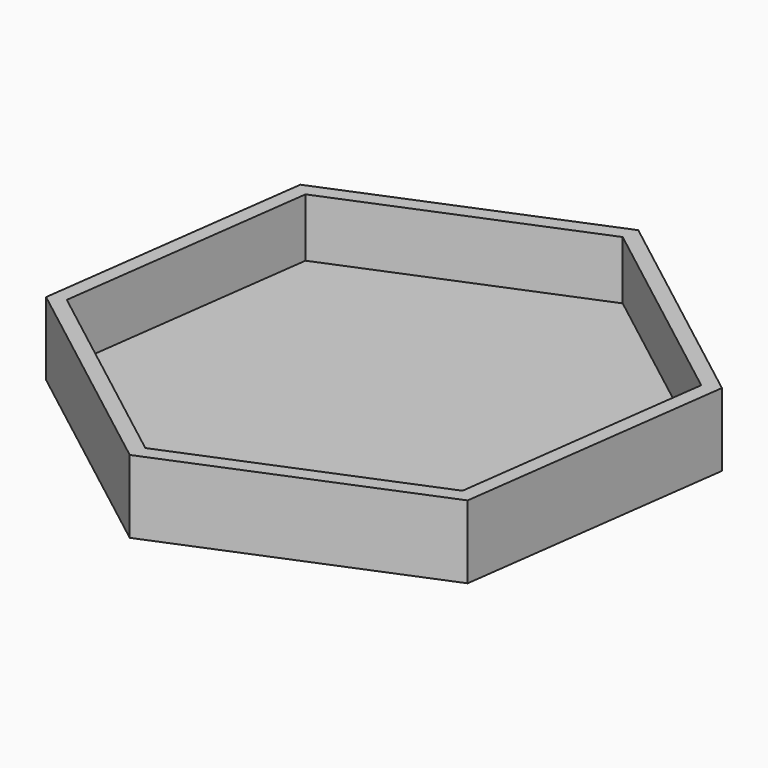
from build123d import *

# Parameters (mm, degrees)
F1_DEPTH = 25.4
F2_T     = -5.08


with BuildPart() as f1:
    # F0 (on Top) → F1 (new body)
    with BuildSketch(Plane.XY):
        Polygon((84.735168, -58.349015), (97.371386, 36.462443), (21.580365, 94.811458), (-66.846875, 58.349015), (-79.483094, -36.462443), (-3.692072, -94.811458), align=None)
        Polygon((84.735168, -58.349015), (97.371386, 36.462443), (21.580365, 94.811458), (-66.846875, 58.349015), (-79.483094, -36.462443), (-3.692072, -94.811458), align=None)
    extrude(amount=F1_DEPTH)

    # F2
    f2_openings = [f1.faces().sort_by_distance(p)[0] for p in [
        (8.944146, 0, 25.4),
    ]]
    offset(amount=F2_T, openings=f2_openings)


solid = f1.part
